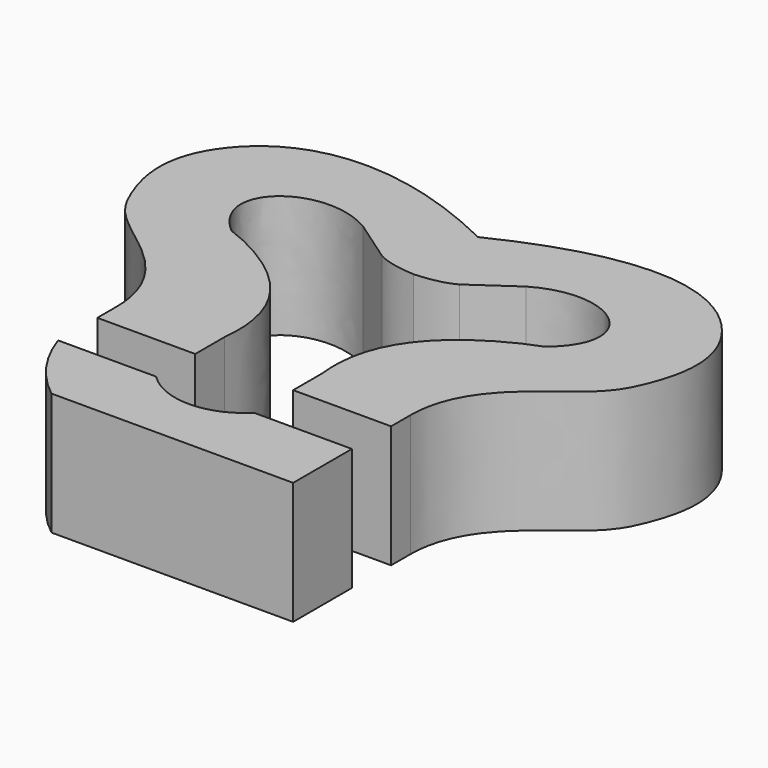
from build123d import *

# Parameters (mm, degrees)
EXTRUDE004_DEPTH = 2
EXTRUDE003_DEPTH = 2


with BuildPart() as obj1:
    # Sketch007 → Extrude004 (new body)
    with BuildSketch(Plane.XY):
        with BuildLine():
            Line((-6.511396, 2.803628), (-8.111396, 2.803628))
            Line((-8.111396, 2.803628), (-8.111396, 3.195342))
            add(Edge.make_bspline(
                [(-5.711396, 7.580171), (-8.134625, 8.760246), (-10.423908, 7.481657), (-9.936826, 5.594217), (-9.521355, 5.085755), (-8.111396, 4.132973), (-8.111396, 3.195342)],
                knots=[0, 0, 0, 0, 0.25, 0.5, 0.75, 1, 1, 1, 1], degree=3))
            add(Edge.make_bspline(
                [(-5.711396, 7.580171), (-3.288167, 8.760246), (-0.998884, 7.481657), (-1.485966, 5.594217), (-1.901437, 5.085755), (-3.311396, 4.132973), (-3.311396, 3.195342)],
                knots=[0, 0, 0, 0, 0.25, 0.5, 0.75, 1, 1, 1, 1], degree=3))
            Line((-3.311396, 3.195342), (-3.311396, 2.803628))
            Line((-3.311396, 2.803628), (-4.911396, 2.803628))
            Line((-4.911396, 2.803628), (-4.911396, 3.40307))
            add(Edge.make_bspline(
                [(-3.446122, 5.626382), (-5.078191, 4.839241), (-4.911396, 3.40307)],
                knots=[0, 0, 0, 1, 1, 1], degree=2))
            Line((-3.446122, 5.626382), (-3.149386, 5.749731))
            add(Edge.make_bspline(
                [(-4.379856, 6.895151), (-3.336875, 7.506011), (-2.16788, 6.580557), (-3.149386, 5.749731)],
                knots=[0, 0, 0, 0, 1, 1, 1, 1], degree=3))
            Line((-4.379856, 6.895151), (-5.078191, 6.410078))
            add(Edge.make_bspline(
                [(-5.078191, 6.410078), (-5.290526, 6.289091), (-5.711396, 6.263954)],
                knots=[0, 0, 0, 1, 1, 1], degree=2))
            add(Edge.make_bspline(
                [(-6.344601, 6.410078), (-6.132266, 6.289091), (-5.711396, 6.263954)],
                knots=[0, 0, 0, 1, 1, 1], degree=2))
            Line((-6.344601, 6.410078), (-7.042936, 6.895151))
            add(Edge.make_bspline(
                [(-7.042936, 6.895151), (-8.085917, 7.506011), (-9.254912, 6.580557), (-8.273406, 5.749731)],
                knots=[0, 0, 0, 0, 1, 1, 1, 1], degree=3))
            Line((-8.273406, 5.749731), (-7.97667, 5.626382))
            add(Edge.make_bspline(
                [(-7.97667, 5.626382), (-6.344601, 4.839241), (-6.511396, 3.40307)],
                knots=[0, 0, 0, 1, 1, 1], degree=2))
            Line((-6.511396, 3.40307), (-6.511396, 2.803628))
        make_face()
    extrude(amount=EXTRUDE004_DEPTH)


with BuildPart() as obj2:
    # Sketch005 → Extrude003 (new body)
    with BuildSketch(Plane.XY):
        with BuildLine():
            Line((-8.111396, 2.003628), (-6.511396, 2.003628))
            ThreePointArc((-6.511396, 2.003628), (-5.711396, 1.672257), (-4.911396, 2.003628))
            Line((-4.911396, 2.003628), (-3.311396, 2.003628))
            Line((-3.311396, 2.003628), (-3.311396, 0.803628))
            Line((-3.311396, 0.803628), (-7.260589, 0.803628))
            ThreePointArc((-8.111396, 2.003628), (-7.775138, 1.340423), (-7.260589, 0.803628))
        make_face()
    extrude(amount=EXTRUDE003_DEPTH)

    # Fusion001: union obj1
    add(obj1.part)


solid = obj2.part
